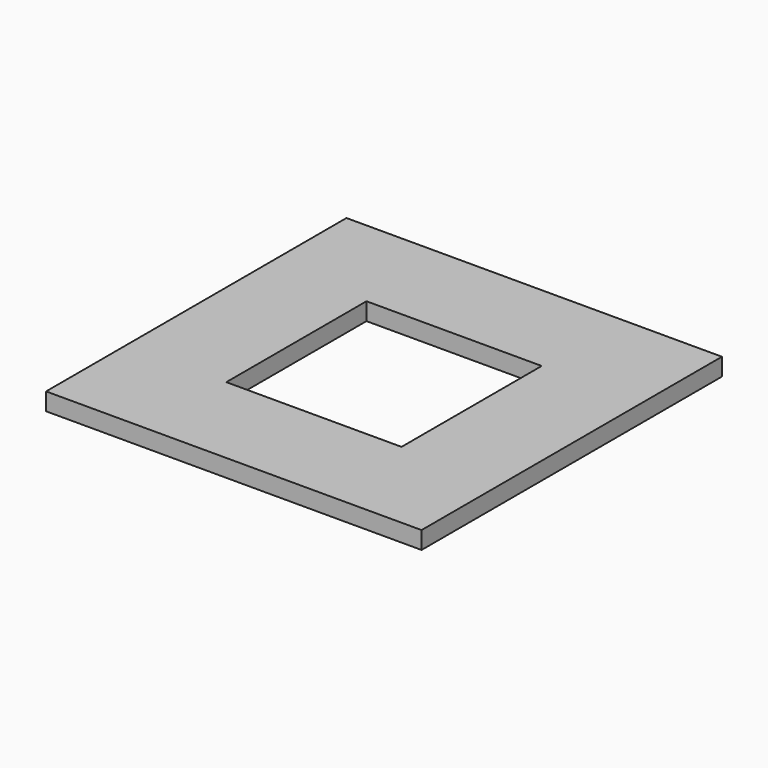
from build123d import *

# Parameters (mm, degrees)
F0_W     = 30
F0_H     = 30
F0_W_2   = 14
F0_H_2   = 14
F1_DEPTH = 1.4


with BuildPart() as f1:
    # F0 (on Top) → F1 (new body)
    with BuildSketch(Plane.XY):
        Rectangle(F0_W, F0_H)
        Rectangle(F0_W_2, F0_H_2, mode=Mode.SUBTRACT)
        Rectangle(F0_W, F0_H)
        Rectangle(F0_W_2, F0_H_2, mode=Mode.SUBTRACT)
    extrude(amount=F1_DEPTH)


solid = f1.part
